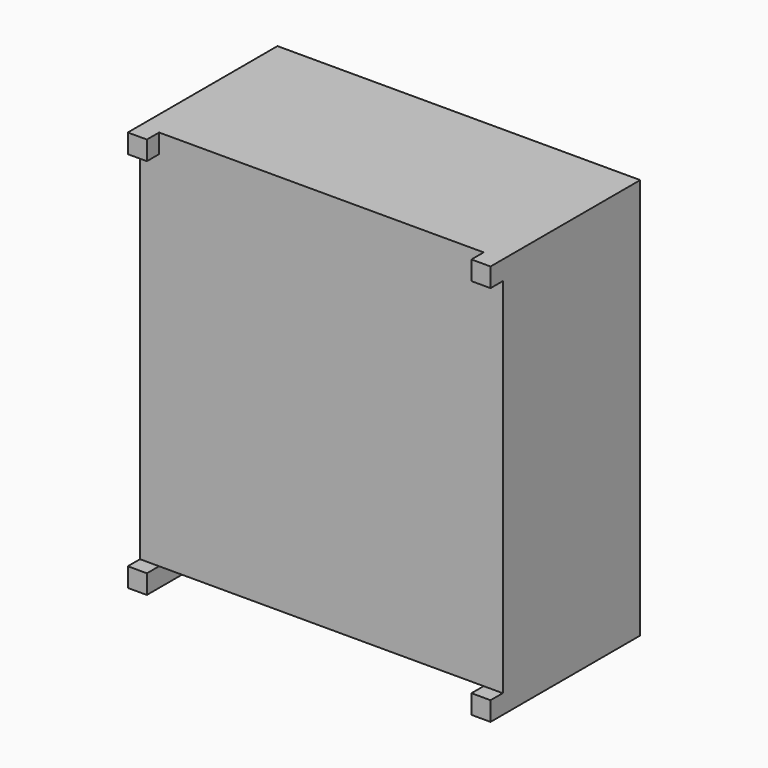
from build123d import *

# Parameters (mm, degrees)
SKETCH008_W  = 9.5
SKETCH008_H  = 4.5
PAD072_DEPTH = 10
SKETCH009_W  = 0.5
SKETCH009_H  = 0.5
PAD075_DEPTH = 0.4
SKETCH012_W  = 0.5
SKETCH012_H  = 4.9
PAD006_DEPTH = 0.5


with BuildPart() as part:
    # Sketch008 → Pad072 (new body)
    with BuildSketch(Plane.XY):
        Rectangle(SKETCH008_W, SKETCH008_H)
    extrude(amount=PAD072_DEPTH)

    # Sketch009 (on Face3 of Pad072) → Pad075 (join)
    with BuildSketch(Plane.XZ.offset(2.25)):
        with Locations((-4.5, 9.75)):
            Rectangle(SKETCH009_W, SKETCH009_H)
        with Locations((4.5, 9.75)):
            Rectangle(SKETCH009_W, SKETCH009_H)
    extrude(amount=PAD075_DEPTH)

    # Sketch012 (on Face4 of Pad075) → Pad006 (join)
    with BuildSketch(Plane(origin=(0, 0, 0), x_dir=(1, 0, 0), z_dir=(0, 0, -1))):
        with Locations((-4.5, 0.2)):
            Rectangle(SKETCH012_W, SKETCH012_H)
        with Locations((4.5, 0.2)):
            Rectangle(SKETCH012_W, SKETCH012_H)
    extrude(amount=PAD006_DEPTH)


solid = part.part
